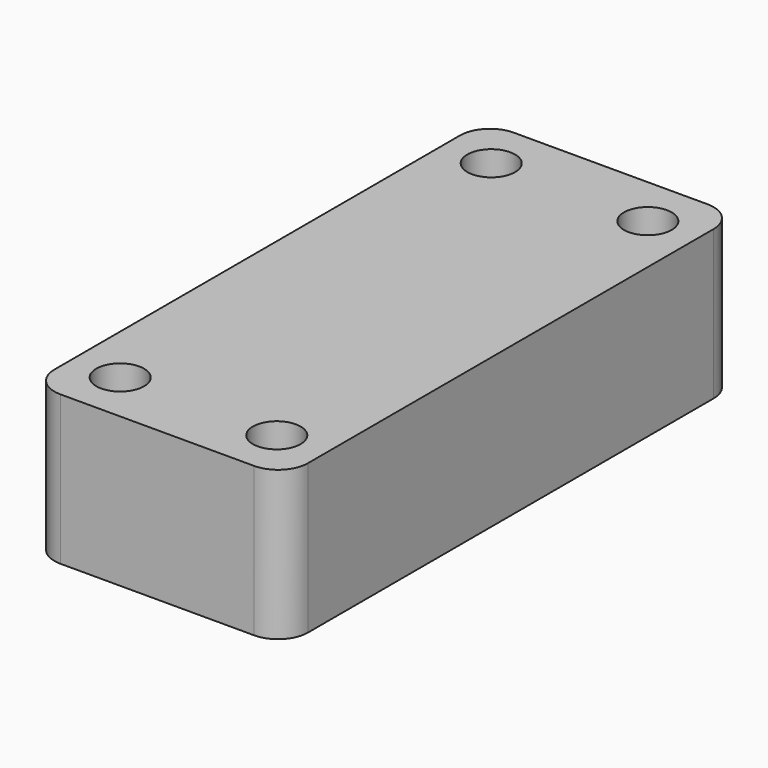
from build123d import *

# Parameters (mm, degrees)
F0_W     = 17
F0_H     = 38
F0_R     = 1.6
F1_DEPTH = 10
F2_R     = 2


with BuildPart() as f1:
    # F0 (on Top) → F1 (new body)
    with BuildSketch(Plane.XY):
        Rectangle(F0_W, F0_H)
        with Locations((-5.25, -15.55)):
            Circle(F0_R, mode=Mode.SUBTRACT)
        with Locations((5.25, -15.55)):
            Circle(F0_R, mode=Mode.SUBTRACT)
        with Locations((-5.25, 15.55)):
            Circle(F0_R, mode=Mode.SUBTRACT)
        with Locations((5.25, 15.55)):
            Circle(F0_R, mode=Mode.SUBTRACT)
    extrude(amount=F1_DEPTH)

    # F2
    f2_edges = [f1.edges().sort_by_distance(p)[0] for p in [
        (8.5, -19, 5),
        (-8.5, -19, 5),
        (8.5, 19, 5),
        (-8.5, 19, 5),
    ]]
    fillet(f2_edges, radius=F2_R)


solid = f1.part
